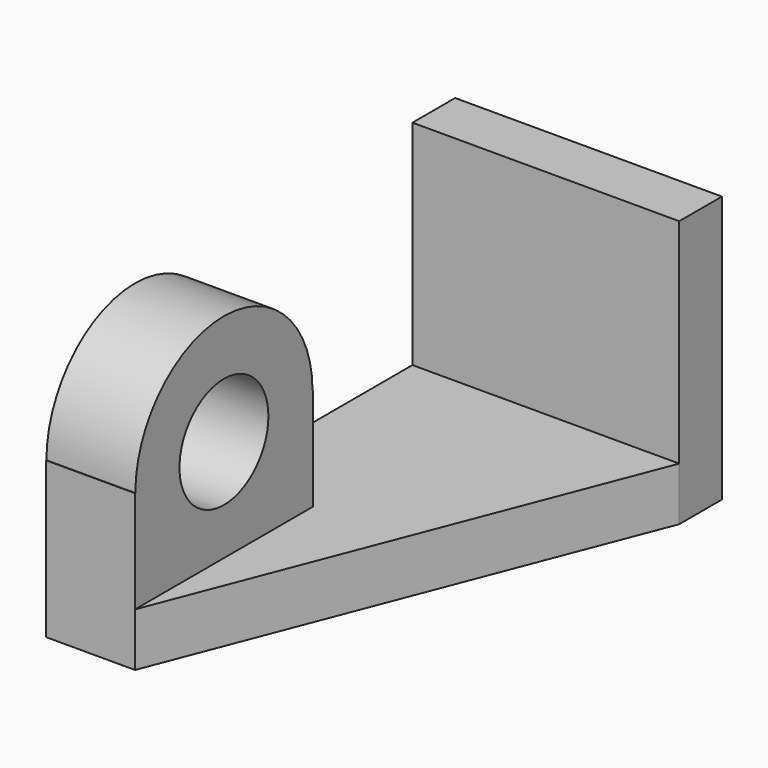
from build123d import *

# Parameters (mm, degrees)
F0_W      = 1524
F0_H      = 1524
F1_DEPTH  = 304.8
F2_W      = 1524
F2_H      = 304.8
F3_DEPTH  = 2616.2
F4_W      = 508
F4_H      = 1270
F5_DEPTH  = 584.2
F7_DEPTH  = 508
F10_R     = 317.5
F11_DEPTH = 1231.9
F14_DEPTH = 1102.36


with BuildPart() as f1:
    # F0 (on Front) → F1 (new body)
    with BuildSketch(Plane.XZ):
        with Locations((608.1712, 676.209716)):
            Rectangle(F0_W, F0_H)
    extrude(amount=F1_DEPTH)

    # F2 (on face) → F3 (join)
    with BuildSketch(Plane.XZ.offset(304.8)):
        with Locations((608.1712, 66.609716)):
            Rectangle(F2_W, F2_H)
    extrude(amount=F3_DEPTH)

    # F4 (on face) → F5 (join)
    with BuildSketch(Plane.XY.offset(219.009716)):
        with Locations((100.1712, -2286)):
            Rectangle(F4_W, F4_H)
    extrude(amount=F5_DEPTH)

    # F6 (on face) → F7 (join)
    with BuildSketch(Plane.YZ.offset(354.1712)):
        with BuildLine():
            Line((-2918.624303, 803.209716), (-1653.375697, 803.209716))
            ThreePointArc((-1653.375697, 803.209716), (-2286, 1435.834019), (-2918.624303, 803.209716))
        make_face()
    extrude(amount=-F7_DEPTH)

    # F10 (on face) → F11 (cut)
    with BuildSketch(Plane.YZ.offset(354.1712)):
        with Locations((-2286, 803.209716)):
            Circle(F10_R)
    extrude(amount=-F11_DEPTH, mode=Mode.SUBTRACT)

    # F12 (on face) → F14 (cut)
    with BuildSketch(Plane.XY.offset(219.009716)):
        Polygon((1370.1712, -304.8), (354.1712, -2921), (1370.1712, -2921), align=None)
    extrude(amount=-F14_DEPTH, mode=Mode.SUBTRACT)


solid = f1.part
